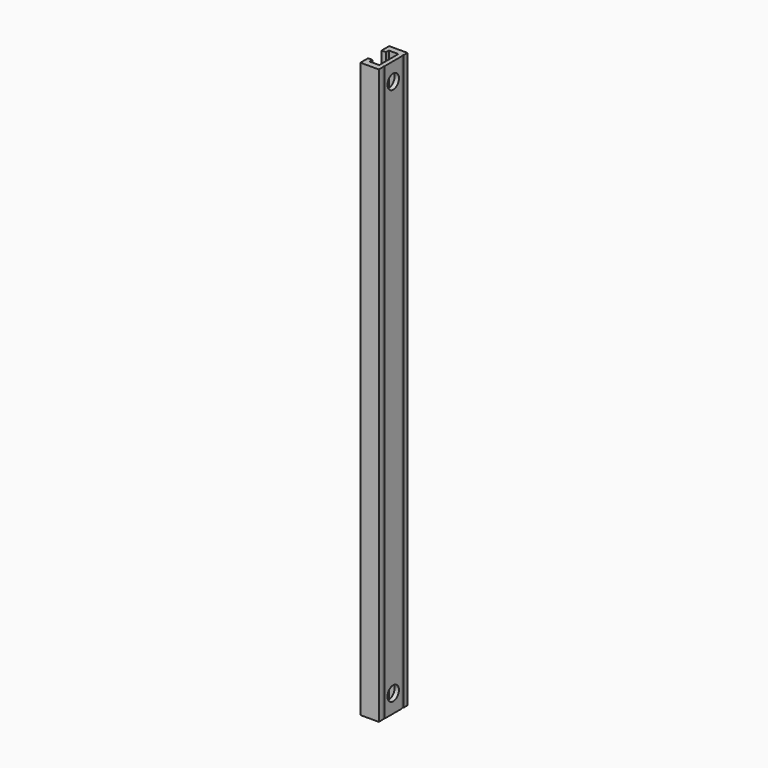
from build123d import *

# Parameters (mm, degrees)
F1_DEPTH = 304.8
F3_D     = 7.62
F3_DEPTH = 25.4


with BuildPart() as f1:
    # F0 (on Top) → F1 (new body)
    with BuildSketch(Plane.XY):
        with BuildLine():
            Line((-4.8895, -9.525), (4.8895, -9.525))
            Line((4.8895, -9.525), (4.8895, -6.861627))
            ThreePointArc((4.8895, -6.861627), (4.593677, -6.366351), (4.8895, -5.871076))
            Line((4.8895, -5.871076), (4.8895, 5.871076))
            ThreePointArc((4.8895, 5.871076), (4.593677, 6.366351), (4.8895, 6.861627))
            Line((4.8895, 6.861627), (4.8895, 9.525))
            Line((4.8895, 9.525), (-4.8895, 9.525))
            Line((-4.8895, 9.525), (-4.8895, 4.445))
            Line((-4.8895, 4.445), (-2.54, 4.445))
            Line((-2.54, 4.445), (-2.54, 6.35))
            Line((-2.54, 6.35), (2.54, 6.35))
            Line((2.54, 6.35), (2.54, -6.35))
            Line((2.54, -6.35), (-2.54, -6.35))
            Line((-2.54, -6.35), (-2.54, -4.445))
            Line((-2.54, -4.445), (-4.8895, -4.445))
            Line((-4.8895, -4.445), (-4.8895, -9.525))
        make_face()
    extrude(amount=F1_DEPTH)

    # F3
    with Locations(Plane.YZ.offset(4.8895)):
        with Locations((0, 295.275), (0, 9.525)):
            Hole(F3_D / 2, depth=F3_DEPTH)


solid = f1.part
